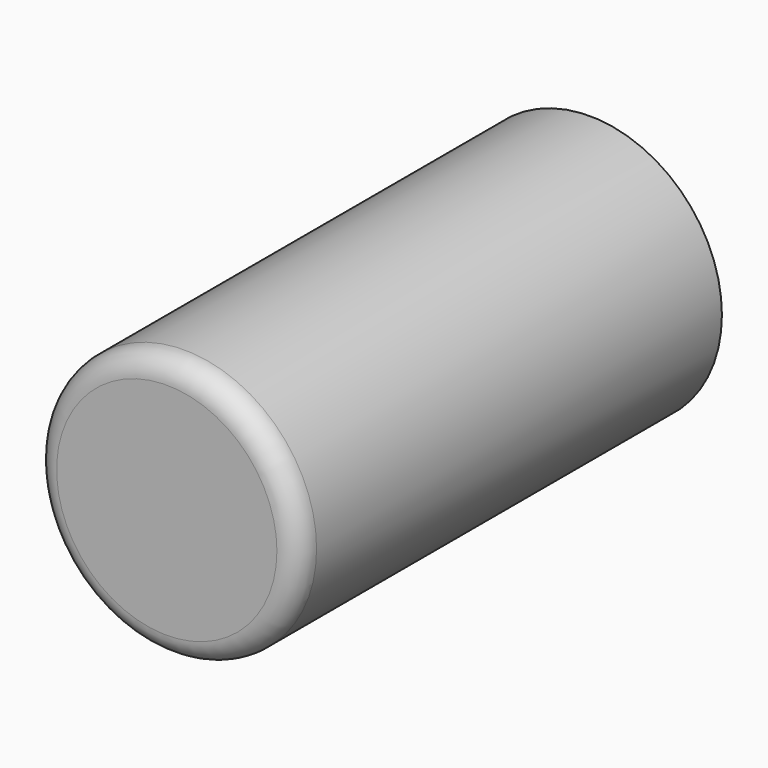
from build123d import *

# Parameters (mm, degrees)
F0_R     = 30
F1_DEPTH = 120
F2_R     = 25
F3_DEPTH = 115
F4_R     = 5


with BuildPart() as f1:
    # F0 (on Front) → F1 (new body)
    with BuildSketch(Plane.XZ):
        Circle(F0_R)
    extrude(amount=F1_DEPTH)

    # F2 (on face) → F3 (cut)
    with BuildSketch(Plane(origin=(0, 0, 0), x_dir=(-1, 0, 0), z_dir=(0, 1, 0))):
        Circle(F2_R)
    extrude(amount=-F3_DEPTH, mode=Mode.SUBTRACT)

    # F4
    f4_edges = [f1.edges().sort_by_distance(p)[0] for p in [
        (-30, -120, 0),
    ]]
    fillet(f4_edges, radius=F4_R)


solid = f1.part
